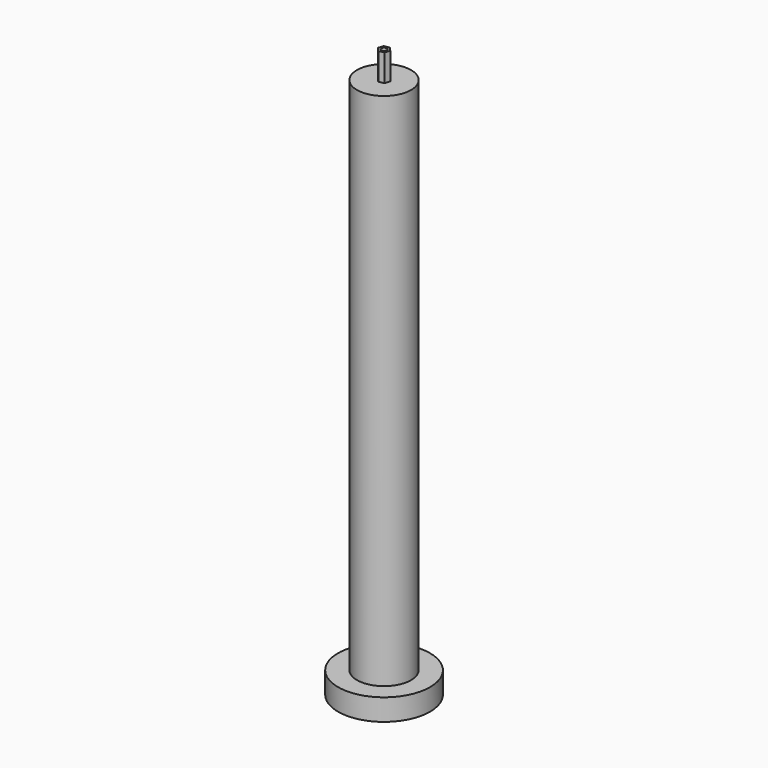
from build123d import *

# Parameters (mm, degrees)
F0_R     = 8.5
F1_DEPTH = 4
F2_R     = 5
F3_DEPTH = 100
F5_DEPTH = 5
F6_R     = 0.5
F7_DEPTH = 115.3


with BuildPart() as f1:
    # F0 (on Top) → F1 (new body)
    with BuildSketch(Plane.XY):
        Circle(F0_R)
    extrude(amount=F1_DEPTH)

    # F2 (on Top) → F3 (join)
    with BuildSketch(Plane.XY):
        Circle(F2_R)
    extrude(amount=F3_DEPTH)

    # F4 (on face) → F5 (join)
    with BuildSketch(Plane.XY.offset(100)):
        Polygon((0.674898, -0.737911), (0.976499, 0.215523), (0.301601, 0.953434), (-0.674898, 0.737911), (-0.976499, -0.215523), (-0.301601, -0.953434), align=None)
    extrude(amount=F5_DEPTH)

    # F6 (on face) → F7 (cut)
    with BuildSketch(Plane.XY.offset(105)):
        Circle(F6_R)
    extrude(amount=-F7_DEPTH, mode=Mode.SUBTRACT)


solid = f1.part
